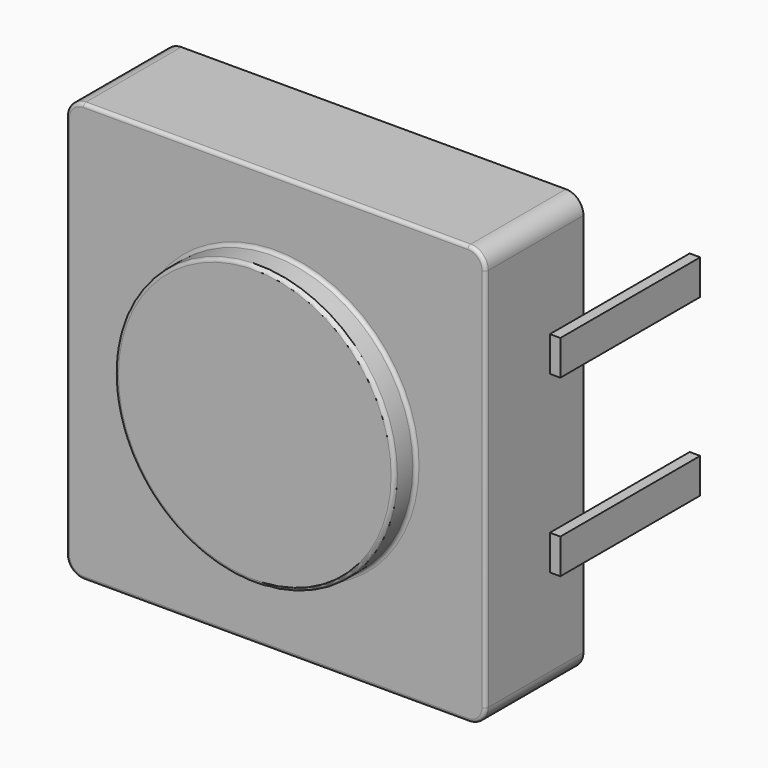
from build123d import *

# Parameters (mm, degrees)
F0_W      = 12
F0_H      = 12
F1_DEPTH  = 3.5
F2_R      = 0.5
F3_R      = 4
F4_DEPTH  = 0.75
F5_R      = 0.1
F6_R      = 0.1
F7_W      = 3.8
F7_H      = 1
F7_W_2    = 1.2
F8_DEPTH  = 0.3
F9_W      = 1.2
F9_H      = 1
F9_W_2    = 3.8
F10_DEPTH = 0.3
F12_DEPTH = 1.4


with BuildPart() as f1:
    # F0 (on Front) → F1 (new body)
    with BuildSketch(Plane.XZ):
        Rectangle(F0_W, F0_H)
    extrude(amount=F1_DEPTH)

    # F2
    f2_edges = [f1.edges().sort_by_distance(p)[0] for p in [
        (6, -1.75, 6),
        (6, -1.75, -6),
        (-6, -1.75, -6),
        (-6, -1.75, 6),
    ]]
    fillet(f2_edges, radius=F2_R)

    # F3 (on face) → F4 (join)
    with BuildSketch(Plane.XZ.offset(3.5)):
        Circle(F3_R)
    extrude(amount=F4_DEPTH)

    # F5
    f5_edges = [f1.edges().sort_by_distance(p)[0] for p in [
        (-4, -4.25, 0),
    ]]
    fillet(f5_edges, radius=F5_R)

    # F6
    f6_edges = [f1.edges().sort_by_distance(p)[0] for p in [
        (0, -3.5, -6),
        (-5.853553, -3.5, -5.853553),
        (5.853553, -3.5, -5.853553),
        (-6, -3.5, 0),
        (6, -3.5, 0),
        (-5.853553, -3.5, 5.853553),
        (5.853553, -3.5, 5.853553),
        (0, -3.5, 6),
        (-4, -3.5, 0),
    ]]
    fillet(f6_edges, radius=F6_R)

    # F7 (on face) → F8 (join)
    with BuildSketch(Plane(origin=(-6, 0, 0), x_dir=(0, -1, 0), z_dir=(-1, 0, 0))):
        with Locations((-1.9, 2.5)):
            Rectangle(F7_W, F7_H)
        with Locations((0.6, 2.5)):
            Rectangle(F7_W_2, F7_H)
        with Locations((0.6, -2.5)):
            Rectangle(F7_W_2, F7_H)
        with Locations((-1.9, -2.5)):
            Rectangle(F7_W, F7_H)
    extrude(amount=F8_DEPTH)

    # F9 (on face) → F10 (join)
    with BuildSketch(Plane.YZ.offset(6)):
        with Locations((-0.6, 2.5)):
            Rectangle(F9_W, F9_H)
        with Locations((1.9, 2.5)):
            Rectangle(F9_W_2, F9_H)
        with Locations((-0.6, -2.5)):
            Rectangle(F9_W, F9_H)
        with Locations((1.9, -2.5)):
            Rectangle(F9_W_2, F9_H)
    extrude(amount=F10_DEPTH)

    # F11 (on face) → F12 (join)
    with BuildSketch(Plane(origin=(0, 0, 0), x_dir=(-1, 0, 0), z_dir=(0, 1, 0))):
        with BuildLine():
            Line((0.9, 4.475), (-0.85, 4.475))
            ThreePointArc((-0.85, 4.475), (0.025, 3.6496433929), (0.9, 4.475))
        make_face()
        with BuildLine():
            Line((-0.85, -4.475), (0.9, -4.475))
            ThreePointArc((0.9, -4.475), (0.025, -3.6496433929), (-0.85, -4.475))
        make_face()
    extrude(amount=F12_DEPTH)


solid = f1.part
